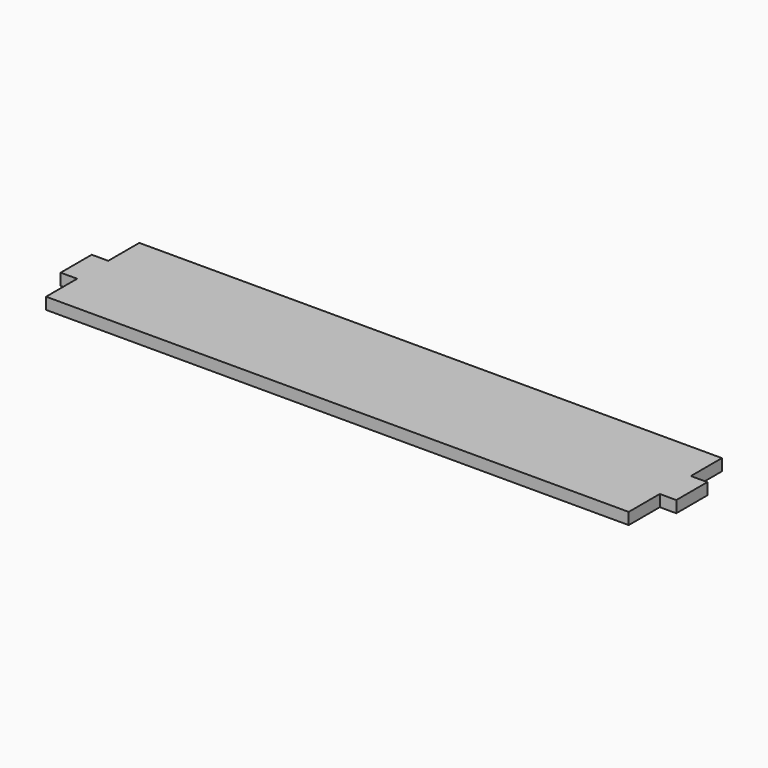
from build123d import *

# Parameters (mm, degrees)
F0_W     = 300
F0_H     = 60
F1_DEPTH = 6
F2_W     = 8.5
F2_H     = 20
F3_DEPTH = 6


with BuildPart() as f1:
    # F0 (on Top) → F1 (new body)
    with BuildSketch(Plane.XY):
        with Locations((4.93524, 0)):
            Rectangle(F0_W, F0_H)
    extrude(amount=F1_DEPTH)

    # F2 (on face) → F3 (join, through all)
    with BuildSketch(Plane.XY.offset(6)):
        with Locations((-149.31476, 0)):
            Rectangle(F2_W, F2_H)
        with Locations((159.18524, 0)):
            Rectangle(F2_W, F2_H)
    extrude(amount=-F3_DEPTH)


solid = f1.part
